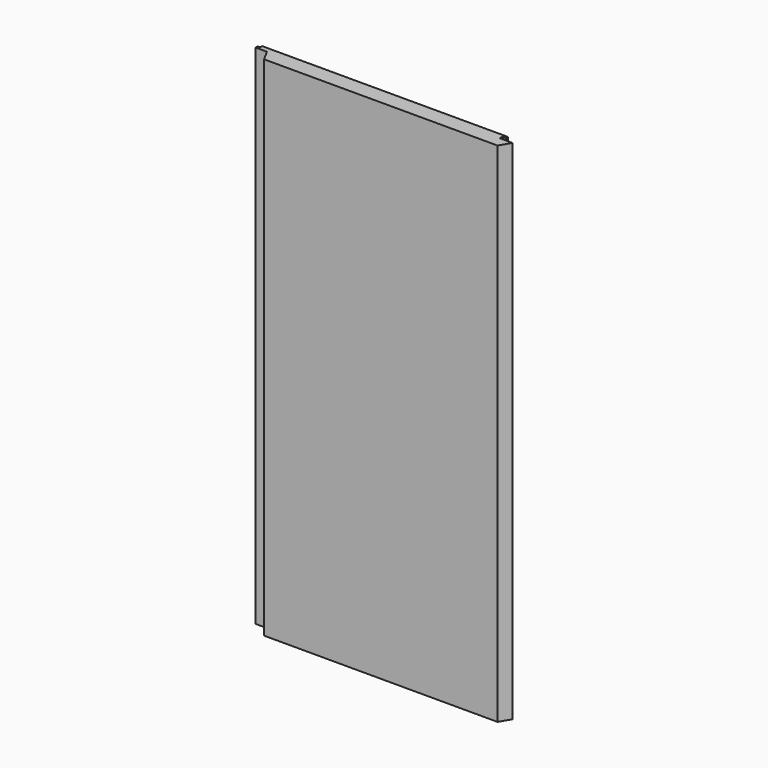
from build123d import *

# Parameters (mm, degrees)
PAD_DEPTH = 400


with BuildPart() as part:
    # Sketch → Pad (new body)
    with BuildSketch(Plane.XY):
        Polygon((0, 0), (184, 0), (189, 8.5), (184, 8.5), (179, 8.5), (179, 11), (182, 11), (182, 13), (-12, 13), (-12, 11), (-14, 11), (-14, 9), (-5, 9), align=None)
    extrude(amount=PAD_DEPTH)


solid = part.part
